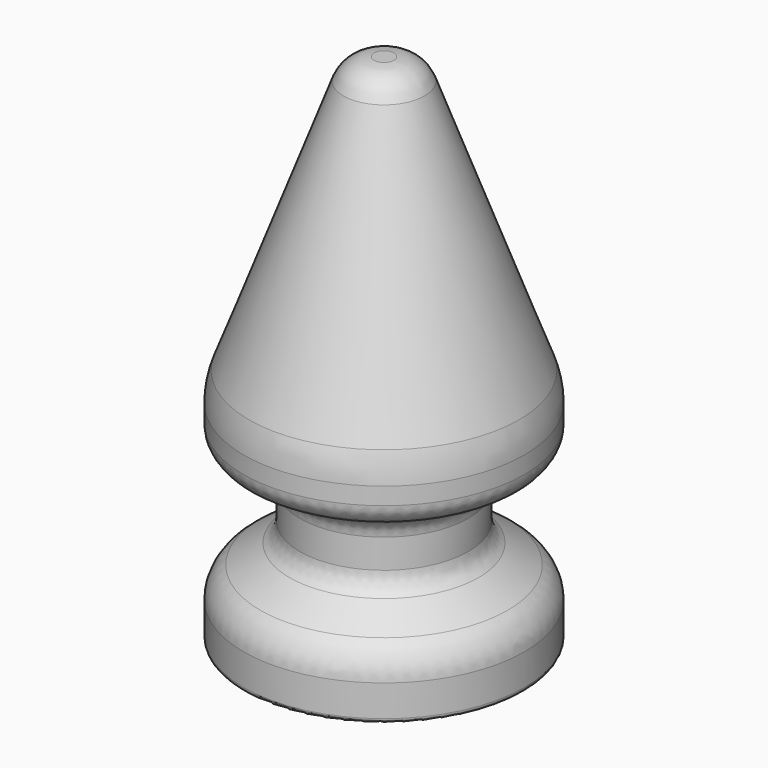
from build123d import *

# Parameters (mm, degrees)
F2_R = 8
F3_R = 5
F4_R = 5
F5_R = 5
F6_R = 18
F7_R = 1


with BuildPart() as f1:
    # F0 (on Front) → F1 (revolve)
    with BuildSketch(Plane.XZ):
        with BuildLine():
            Line((0, 110), (0, 0))
            Line((0, 0), (30, 0))
            Line((30, 0), (30, 12))
            Line((30, 12), (18, 20))
            Line((18, 20), (18, 32))
            Line((18, 32), (30, 38))
            Line((30, 38), (30, 48))
            Line((30, 48), (8.693598, 105.434648))
            ThreePointArc((8.693598, 105.434648), (6.127976, 108.746413), (2.130635, 110))
            Line((2.130635, 110), (0, 110))
        make_face()
    revolve(axis=Axis((0, 0, 55), (0, 0, -1)))

    # F2
    f2_edges = [f1.edges().sort_by_distance(p)[0] for p in [
        (-30, 0, 12),
    ]]
    fillet(f2_edges, radius=F2_R)

    # F3
    f3_edges = [f1.edges().sort_by_distance(p)[0] for p in [
        (-18, 0, 20),
    ]]
    fillet(f3_edges, radius=F3_R)

    # F4
    f4_edges = [f1.edges().sort_by_distance(p)[0] for p in [
        (-18, 0, 32),
    ]]
    fillet(f4_edges, radius=F4_R)

    # F5
    f5_edges = [f1.edges().sort_by_distance(p)[0] for p in [
        (-30, 0, 38),
    ]]
    fillet(f5_edges, radius=F5_R)

    # F6
    f6_edges = [f1.edges().sort_by_distance(p)[0] for p in [
        (-30, 0, 48),
    ]]
    fillet(f6_edges, radius=F6_R)

    # F7
    f7_edges = [f1.edges().sort_by_distance(p)[0] for p in [
        (-30, 0, 0),
    ]]
    fillet(f7_edges, radius=F7_R)


solid = f1.part
